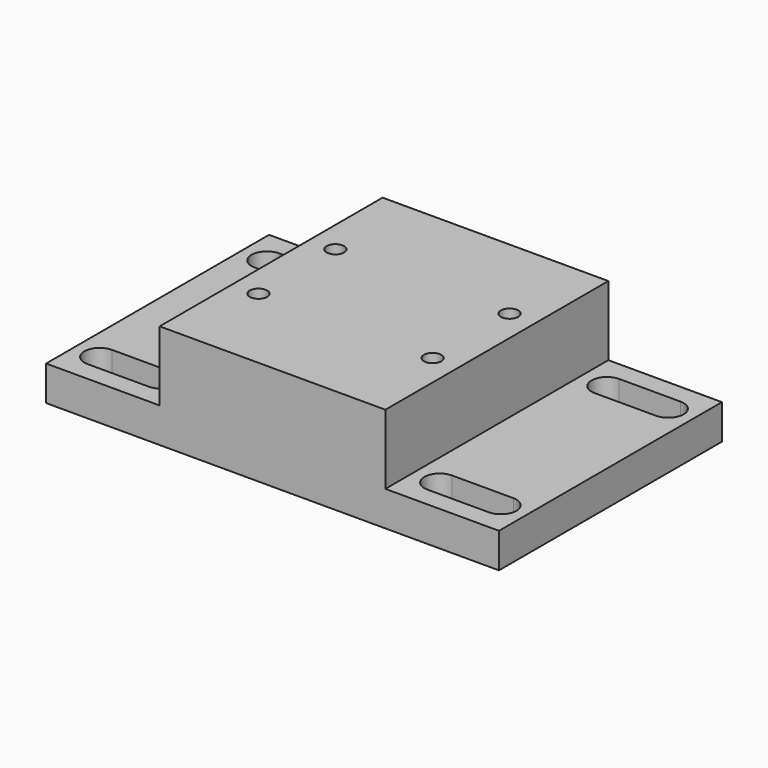
from build123d import *

# Parameters (mm, degrees)
F0_W     = 165.1
F0_H     = 101.6
F1_DEPTH = 12.7
F2_W     = 82.296
F2_H     = 101.6
F3_DEPTH = 25.4
F5_D     = 6.35
F5_DEPTH = 19.05
F5_TIP   = 1.9077324654


with BuildPart() as f1:
    # F0 (on Top) → F1 (new body)
    with BuildSketch(Plane.XY):
        Rectangle(F0_W, F0_H)
        with BuildLine():
            ThreePointArc((-73.152, -43.688), (-78.74, -38.1), (-73.152, -32.512))
            Line((-73.152, -32.512), (-50.8, -32.512))
            ThreePointArc((-50.8, -32.512), (-45.212, -38.1), (-50.8, -43.688))
            Line((-50.8, -43.688), (-73.152, -43.688))
        make_face(mode=Mode.SUBTRACT)
        with BuildLine():
            ThreePointArc((73.152, -32.512), (78.74, -38.1), (73.152, -43.688))
            Line((73.152, -43.688), (50.8, -43.688))
            ThreePointArc((50.8, -43.688), (45.212, -38.1), (50.8, -32.512))
            Line((50.8, -32.512), (73.152, -32.512))
        make_face(mode=Mode.SUBTRACT)
        with BuildLine():
            Line((-50.8, 32.512), (-73.152, 32.512))
            ThreePointArc((-73.152, 32.512), (-78.74, 38.1), (-73.152, 43.688))
            Line((-73.152, 43.688), (-50.8, 43.688))
            ThreePointArc((-50.8, 43.688), (-45.212, 38.1), (-50.8, 32.512))
        make_face(mode=Mode.SUBTRACT)
        with BuildLine():
            ThreePointArc((50.8, 32.512), (45.212, 38.1), (50.8, 43.688))
            Line((50.8, 43.688), (73.152, 43.688))
            ThreePointArc((73.152, 43.688), (78.74, 38.1), (73.152, 32.512))
            Line((73.152, 32.512), (50.8, 32.512))
        make_face(mode=Mode.SUBTRACT)
    extrude(amount=F1_DEPTH)

    # F2 (on face) → F3 (join)
    with BuildSketch(Plane.XY.offset(12.7)):
        Rectangle(F2_W, F2_H)
    extrude(amount=F3_DEPTH)

    # F5
    with Locations(Plane.XY.offset(38.1)):
        with Locations((-31.75, 17.526), (-31.75, -17.526), (31.75, -17.526), (31.75, 17.526)):
            Hole(F5_D / 2, depth=F5_DEPTH)
            with Locations((0, 0, -(F5_DEPTH + F5_TIP / 2))):  # 118° drill point
                Cone(0, F5_D / 2, F5_TIP, mode=Mode.SUBTRACT)


solid = f1.part
